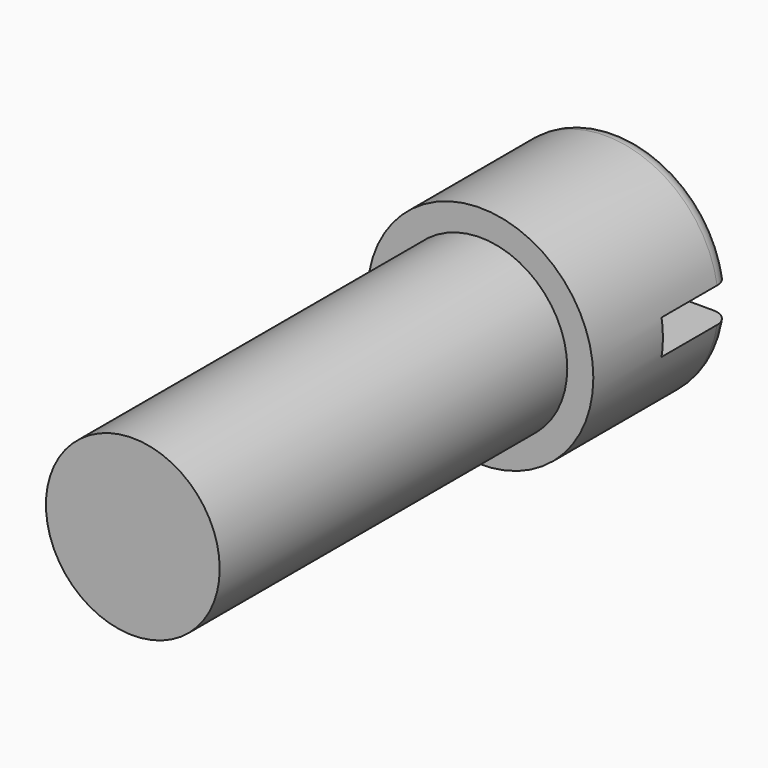
from build123d import *

# Parameters (mm, degrees)
F0_R     = 1.651
F0_R_2   = 1.27
F1_DEPTH = 2.54
F2_DEPTH = 8.89
F3_R     = 0.254
F5_DEPTH = 1.27


with BuildPart() as f1:
    # F0 (on Front) → F1 (new body)
    with BuildSketch(Plane.XZ):
        Circle(F0_R)
        Circle(F0_R_2, mode=Mode.SUBTRACT)
    extrude(amount=F1_DEPTH)

    # F0 (on Front) → F2 (join)
    with BuildSketch(Plane.XZ):
        Circle(F0_R_2)
    extrude(amount=F2_DEPTH)

    # F3
    f3_edges = [f1.edges().sort_by_distance(p)[0] for p in [
        (-1.651, 0, 0),
    ]]
    fillet(f3_edges, radius=F3_R)

    # F4 (on face) → F5 (cut)
    with BuildSketch(Plane.XZ):
        with BuildLine():
            Line((1.6313445375, 0.254), (-1.6313445375, 0.254))
            ThreePointArc((-1.6313445375, 0.254), (-1.651, 0), (-1.6313445375, -0.254))
            Line((-1.6313445375, -0.254), (1.6313445375, -0.254))
            ThreePointArc((1.6313445375, -0.254), (1.651, 0), (1.6313445375, 0.254))
        make_face()
    extrude(amount=F5_DEPTH, mode=Mode.SUBTRACT)


solid = f1.part
